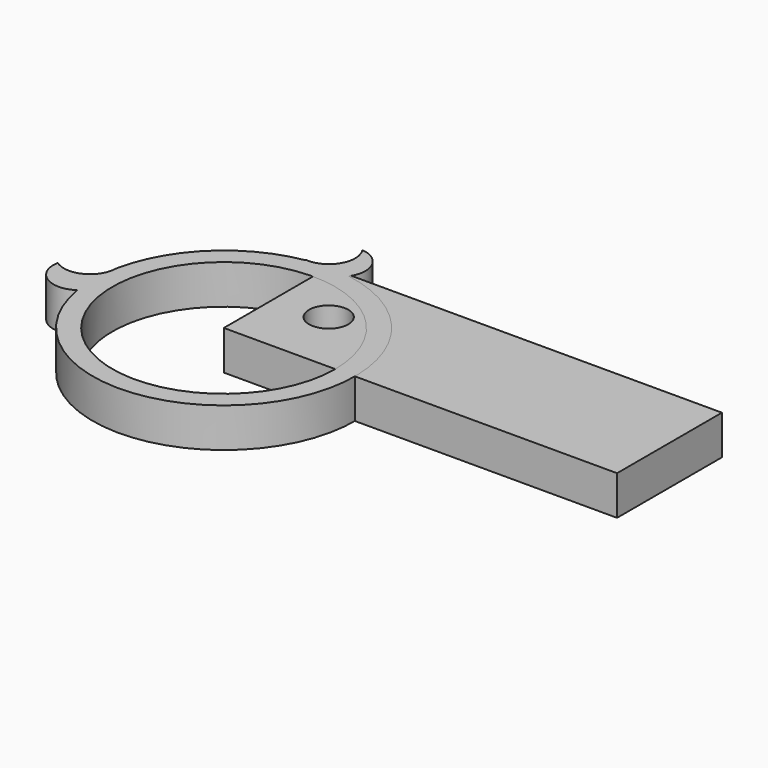
from build123d import *

# Parameters (mm, degrees)
CYLINDER_R                  = 1.5
CYLINDER_DEPTH              = 10
BOX_W                       = 30
BOX_H                       = 10
BOX_DEPTH                   = 3
CYLINDER006_R               = 2
CYLINDER006_DEPTH           = 3
CYLINDER006_PLACEMENT_ANGLE = 105
CYLINDER005_R               = 2
CYLINDER005_DEPTH           = 3
CYLINDER005_PLACEMENT_ANGLE = 105
CYLINDER004_R               = 2
CYLINDER004_DEPTH           = 3
CYLINDER003_R               = 2
CYLINDER003_DEPTH           = 3
CYLINDER002_R               = 8.5
CYLINDER002_DEPTH           = 10
CYLINDER001_R               = 10
CYLINDER001_DEPTH           = 3


with BuildPart() as cylinder:
    # Cylinder → Cylinder (new body)
    with BuildSketch(Plane(origin=(4, 5, 0), x_dir=(1, 0, 0), z_dir=(0, 0, 1))):
        Circle(CYLINDER_R)
    extrude(amount=CYLINDER_DEPTH)


with BuildPart() as cut:
    # Box → Box (new body)
    with BuildSketch(Plane.XY):
        with Locations((15, 5)):
            Rectangle(BOX_W, BOX_H)
    extrude(amount=BOX_DEPTH)

    # Cut: cut Cylinder
    add(cylinder.part, mode=Mode.SUBTRACT)


with BuildPart() as cylinder006:
    # Cylinder006 → Cylinder006 (new body)
    with BuildSketch(Plane.XY):
        Circle(CYLINDER006_R)
    extrude(amount=CYLINDER006_DEPTH)


with BuildPart() as cylinder006_1:
    # Cylinder006 placement: moved
    add(cylinder006.part.moved(Location((-11.8, 2, 0))).rotate(Axis((-11.8, 2, 0), (0, 0, -1)), CYLINDER006_PLACEMENT_ANGLE))


with BuildPart() as cylinder005:
    # Cylinder005 → Cylinder005 (new body)
    with BuildSketch(Plane.XY):
        Circle(CYLINDER005_R)
    extrude(amount=CYLINDER005_DEPTH)


with BuildPart() as cylinder005_1:
    # Cylinder005 placement: moved
    add(cylinder005.part.moved(Location((-1.5, 11.9, 0))).rotate(Axis((-1.5, 11.9, 0), (0, 0, -1)), CYLINDER005_PLACEMENT_ANGLE))


with BuildPart() as cylinder004:
    # Cylinder004 → Cylinder004 (new body)
    with BuildSketch(Plane(origin=(-11, 0, 0), x_dir=(1, 0, 0), z_dir=(0, 0, 1))):
        Circle(CYLINDER004_R)
    extrude(amount=CYLINDER004_DEPTH)


with BuildPart() as cylinder003:
    # Cylinder003 → Cylinder003 (new body)
    with BuildSketch(Plane(origin=(0, 11, 0), x_dir=(1, 0, 0), z_dir=(0, 0, 1))):
        Circle(CYLINDER003_R)
    extrude(amount=CYLINDER003_DEPTH)


with BuildPart() as cylinder002:
    # Cylinder002 → Cylinder002 (new body)
    with BuildSketch(Plane.XY):
        Circle(CYLINDER002_R)
    extrude(amount=CYLINDER002_DEPTH)


with BuildPart() as cut003:
    # Cylinder001 → Cylinder001 (new body)
    with BuildSketch(Plane.XY):
        Circle(CYLINDER001_R)
    extrude(amount=CYLINDER001_DEPTH)

    # Cut001: cut Cylinder002
    add(cylinder002.part, mode=Mode.SUBTRACT)

    # Fusion: union Cylinder004, Cylinder003
    add(cylinder004.part)
    add(cylinder003.part)

    # Cut002: cut Cylinder005
    add(cylinder005_1.part, mode=Mode.SUBTRACT)

    # Cut003: cut Cylinder006
    add(cylinder006_1.part, mode=Mode.SUBTRACT)


solid = Compound([cut.part, cut003.part])
